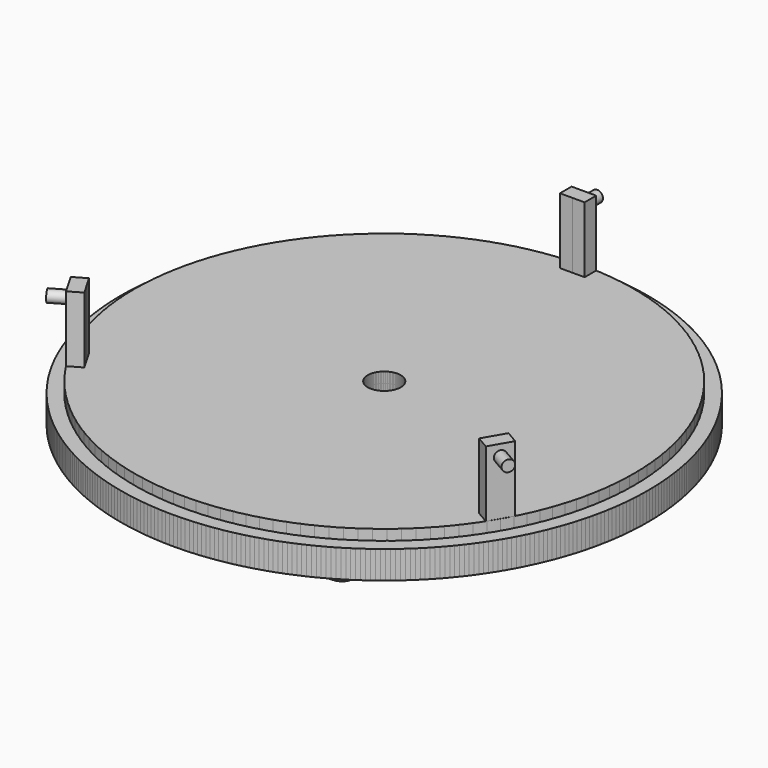
from build123d import *

# Parameters (mm, degrees)
F0_W     = 67.4434289831
F0_H     = 3.0289253771
F4_COUNT = 6
F6_DEPTH = 19.05
F7_R     = 1.6466512249
F8_DEPTH = 4.826
F9_COUNT = 3


with BuildPart() as f1:
    # F0 (on Front) → F1 (revolve)
    with BuildSketch(Plane.XZ):
        Polygon((4.7625, 8.0345804369), (4.7625, 0), (76.2, 0), (76.2, 8.0345804369), (72.2059289831, 8.0345804369), align=None)
        with Locations((38.4842144915, 9.5490431255)):
            Rectangle(F0_W, F0_H)
    revolve(axis=Axis((0, 0, 33.9643856057), (0, 0, 1)))


with BuildPart() as f3:
    # F2 (on Front) → F3 (revolve)
    with BuildSketch(Plane.XZ):
        with BuildLine():
            Line((76.2, 0), (63.2606223226, 0))
            Line((63.2606223226, 0), (63.2606223226, -6.35))
            add(Edge.make_bspline(
                [(63.2606223226, -6.35), (64.2567128359, -6.3367023529), (66.1568511485, -6.0977993671), (69.3589611404, -3.815949039), (70.420773637, -1.2316867366), (72.4679110624, -0.1496287083), (74.8528658508, -0.1092658436), (76.2, 0)],
                knots=[0, 0, 0, 0, 0.1963366102, 0.420327357, 0.6090796456, 0.7755244514, 1, 1, 1, 1], degree=3))
        make_face()
    revolve(axis=Axis((63.2606223226, 0, -3.175), (0, 0, -1)))


with BuildPart() as f4_1:
    # F4: instance of F3
    add(f3.part.rotate(Axis((0, 0, 33.9643856057), (0, 0, 1)), 1 * 360 / F4_COUNT))


with BuildPart() as f4_2:
    # F4: instance of F3
    add(f3.part.rotate(Axis((0, 0, 33.9643856057), (0, 0, 1)), 2 * 360 / F4_COUNT))


with BuildPart() as f4_3:
    # F4: instance of F3
    add(f3.part.rotate(Axis((0, 0, 33.9643856057), (0, 0, 1)), 3 * 360 / F4_COUNT))


with BuildPart() as f4_4:
    # F4: instance of F3
    add(f3.part.rotate(Axis((0, 0, 33.9643856057), (0, 0, 1)), 4 * 360 / F4_COUNT))


with BuildPart() as f4_5:
    # F4: instance of F3
    add(f3.part.rotate(Axis((0, 0, 33.9643856057), (0, 0, 1)), 5 * 360 / F4_COUNT))


with BuildPart() as f4_6:
    # F4: instance of F1
    add(f1.part.rotate(Axis((0, 0, 33.9643856057), (0, 0, 1)), 1 * 360 / F4_COUNT))


with BuildPart() as f4_7:
    # F4: instance of F1
    add(f1.part.rotate(Axis((0, 0, 33.9643856057), (0, 0, 1)), 2 * 360 / F4_COUNT))


with BuildPart() as f4_8:
    # F4: instance of F1
    add(f1.part.rotate(Axis((0, 0, 33.9643856057), (0, 0, 1)), 3 * 360 / F4_COUNT))


with BuildPart() as f4_9:
    # F4: instance of F1
    add(f1.part.rotate(Axis((0, 0, 33.9643856057), (0, 0, 1)), 4 * 360 / F4_COUNT))


with BuildPart() as f4_10:
    # F4: instance of F1
    add(f1.part.rotate(Axis((0, 0, 33.9643856057), (0, 0, 1)), 5 * 360 / F4_COUNT))


with BuildPart() as f6:
    # F5 (on face) → F6 (new body)
    with BuildSketch(Plane.XY.offset(11.063505814)):
        Polygon((57.0441241529, -37.0458737186), (60.675791349, -39.1426177519), (64.2363970183, -32.975467827), (60.6047298222, -30.8787237937), (58.8244269875, -33.9622987562), align=None)
    extrude(amount=F6_DEPTH)

    # F7 (on face) → F8 (join)
    with BuildSketch(Plane(origin=(62.4560941837, -36.0590427895, 0), x_dir=(0.5, 0.8660254038, 0), z_dir=(0.8660254038, -0.5, 0))):
        with Locations((0, 26.8422812223)):
            Circle(F7_R)
    extrude(amount=F8_DEPTH)


with BuildPart() as f9_1:
    # F9: instance of F6
    add(f6.part.rotate(Axis((0, 0, 33.9643856057), (0, 0, 1)), 1 * 360 / F9_COUNT))


with BuildPart() as f9_2:
    # F9: instance of F6
    add(f6.part.rotate(Axis((0, 0, 33.9643856057), (0, 0, 1)), 2 * 360 / F9_COUNT))


solid = Compound([f1.part, f3.part, f4_1.part, f4_2.part, f4_3.part, f4_4.part, f4_5.part, f4_6.part, f4_7.part, f4_8.part, f4_9.part, f4_10.part, f6.part, f9_1.part, f9_2.part])
